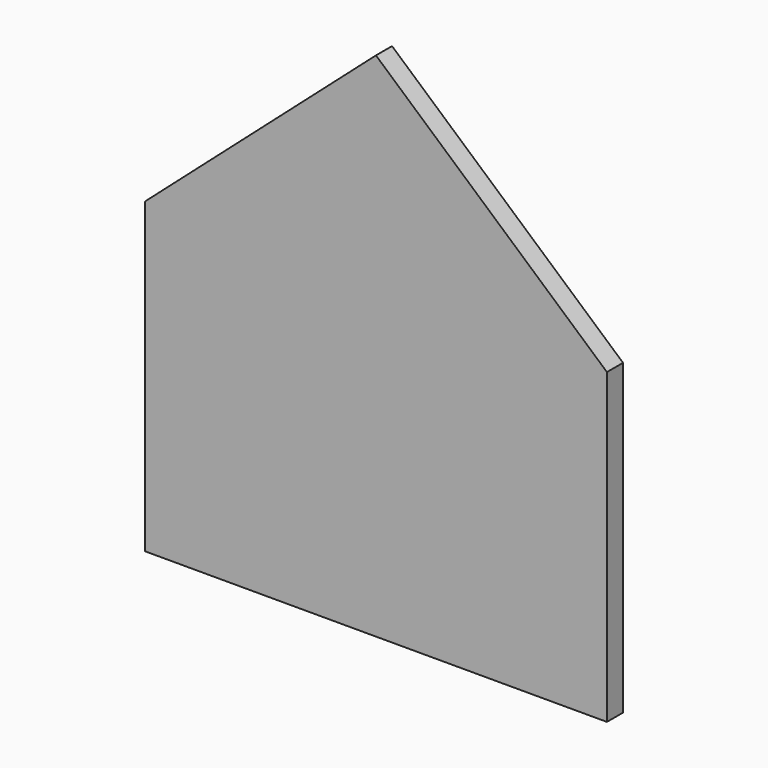
from build123d import *

# Parameters (mm, degrees)
F0_W     = 114.3
F0_H     = 76.2
F1_DEPTH = 4.9784


with BuildPart() as f1:
    # F0 (on Front) → F1 (new body)
    with BuildSketch(Plane.XZ):
        Rectangle(F0_W, F0_H)
        Polygon((-57.15, 38.1), (57.15, 38.1), (0, 88.501562), align=None)
    extrude(amount=F1_DEPTH)


solid = f1.part
